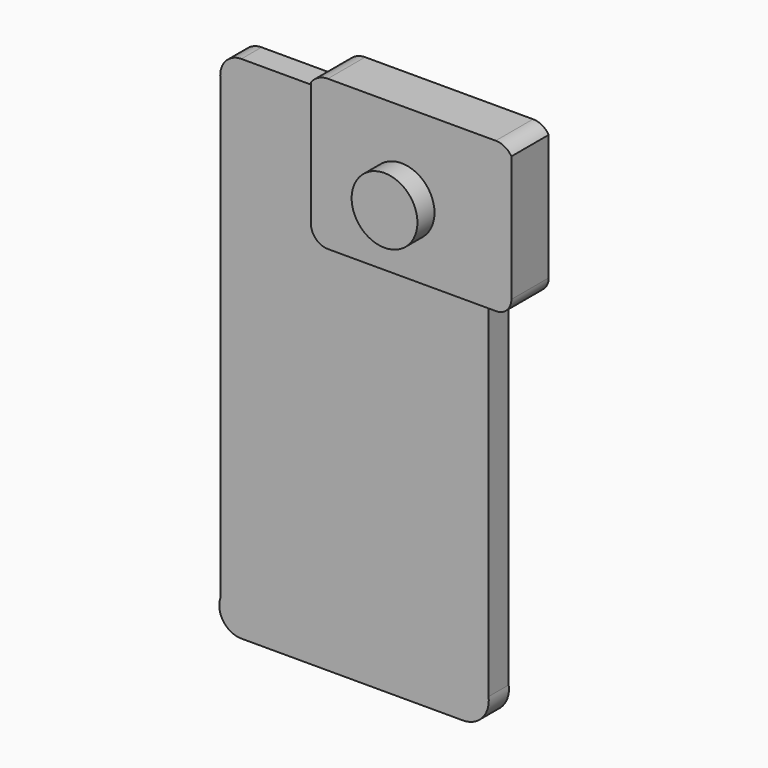
from build123d import *

# Parameters (mm, degrees)
F1_DEPTH = 7.62
F4_DEPTH = 14.11188
F3_R     = 9.956999
F5_DEPTH = 20.56223


with BuildPart() as f1:
    # F0 (on Front) → F1 (new body)
    with BuildSketch(Plane.XZ):
        with BuildLine():
            Line((19.506192, 73.627215), (-47.549808, 73.627215))
            ThreePointArc((-47.549808, 73.627215), (-52.412098, 71.390879), (-53.878481, 66.243765))
            Line((-53.878481, 66.243765), (-53.878481, -71.932235))
            ThreePointArc((-53.878481, -71.932235), (-52.996778, -77.994965), (-47.549808, -80.799357))
            Line((-47.549808, -80.799357), (19.506192, -80.799357))
            ThreePointArc((19.506192, -80.799357), (25.389577, -78.124289), (27.241243, -71.932235))
            Line((27.241243, -71.932235), (27.241243, 66.243765))
            ThreePointArc((27.241243, 66.243765), (24.852835, 71.485043), (19.506192, 73.627215))
        make_face()
    extrude(amount=F1_DEPTH)


with BuildPart() as f4:
    # F2 (on Front) → F4 (new body)
    with BuildSketch(Plane.XZ):
        with BuildLine():
            Line((-16.199785, 35.819632), (34.600215, 35.819632))
            ThreePointArc((34.600215, 35.819632), (37.951748, 37.142304), (39.349227, 40.46334))
            Line((39.349227, 40.46334), (39.349227, 78.56334))
            ThreePointArc((39.349227, 78.56334), (37.313708, 80.489545), (34.600215, 81.189945))
            Line((34.600215, 81.189945), (-16.199785, 81.189945))
            ThreePointArc((-16.199785, 81.189945), (-19.066591, 80.494671), (-21.296376, 78.56334))
            Line((-21.296376, 78.56334), (-21.296376, 40.46334))
            ThreePointArc((-21.296376, 40.46334), (-19.647221, 37.154656), (-16.199785, 35.819632))
        make_face()
    extrude(amount=F4_DEPTH)


with BuildPart() as f5:
    # F3 (on face) → F5 (new body)
    with BuildSketch(Plane.XZ):
        with Locations((6.117624, 55.987105)):
            Circle(F3_R)
    extrude(amount=F5_DEPTH)


solid = Compound([f1.part, f4.part, f5.part])
